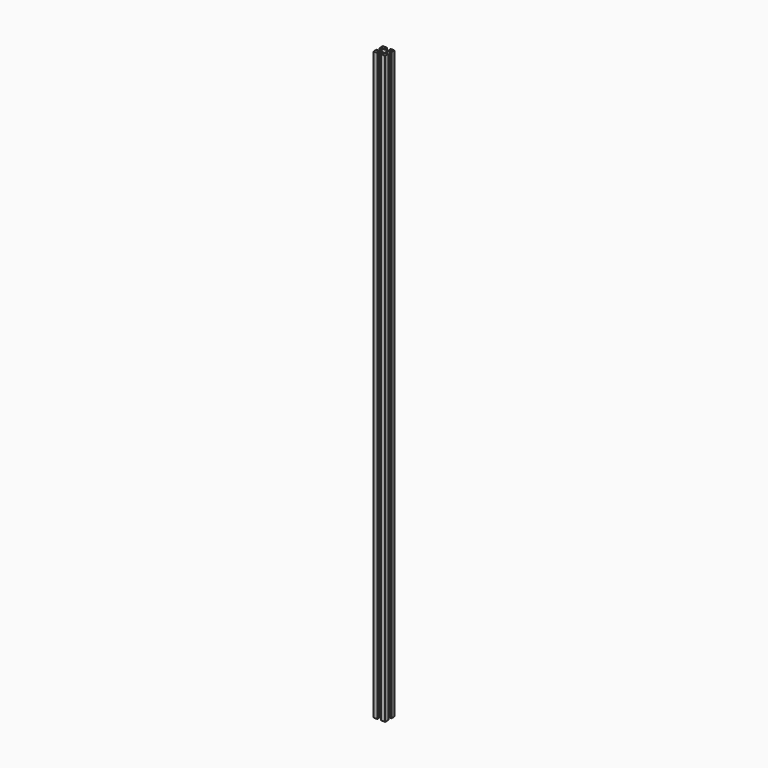
from build123d import *

# Parameters (mm, degrees)
F1_DEPTH = 1000


with BuildPart() as f1:
    # F0 (on Top) → F1 (new body)
    with BuildSketch(Plane.XY):
        Polygon((-3, 10), (-10, 10), (-10, 3), (-8.2, 3), (-8.2, 5.5), (-6.6, 5.5), (-3.9, 2.8), (-3.9, -2.8), (-6.6, -5.5), (-8.2, -5.5), (-8.2, -3), (-10, -3), (-10, -10), (-3, -10), (-3, -8.2), (-5.5, -8.2), (-5.5, -6.6), (-2.8, -3.9), (2.8, -3.9), (5.5, -6.6), (5.5, -8.2), (3, -8.2), (3, -10), (10, -10), (10, -3), (8.2, -3), (8.2, -5.5), (6.6, -5.5), (3.9, -2.8), (3.9, 2.8), (6.6, 5.5), (8.2, 5.5), (8.2, 3), (10, 3), (10, 10), (3, 10), (3, 8.2), (5.5, 8.2), (5.5, 6.6), (2.8, 3.9), (-2.8, 3.9), (-5.5, 6.6), (-5.5, 8.2), (-3, 8.2), align=None)
    extrude(amount=F1_DEPTH)


solid = f1.part
